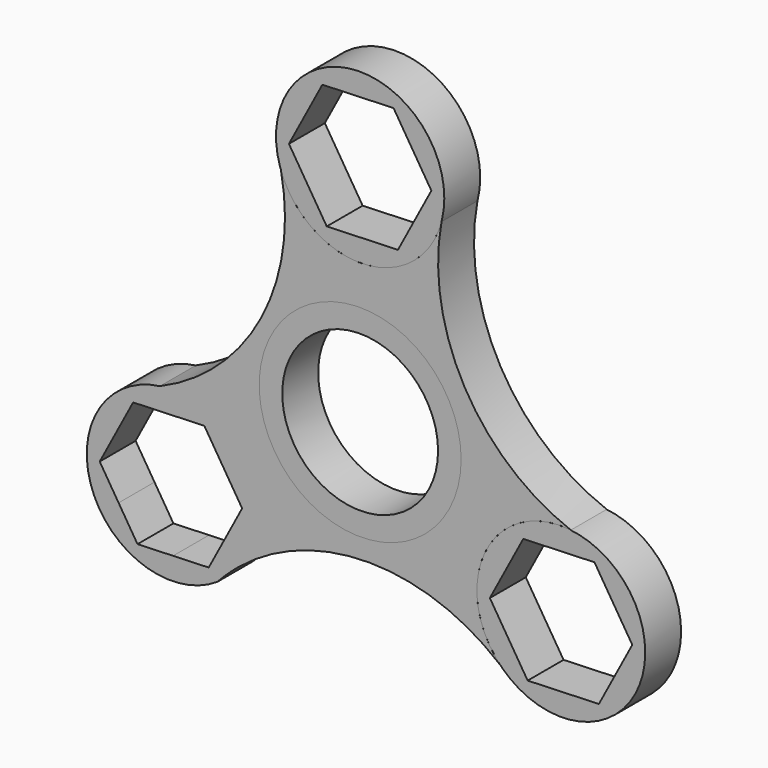
from build123d import *

# Parameters (mm, degrees)
F1_R     = 14.2875
F2_DEPTH = 6.35
F0_R     = 14.2875
F0_R_2   = 11.0236
F0_R_3   = 11.90625


with BuildPart() as f2:
    # F1 (on Front) → F2 (new body)
    with BuildSketch(Plane.XZ):
        with BuildLine():
            ThreePointArc((-28.3368777048, -4.7308819237), (-18.9271499683, -7.579703249), (-14.8679894846, -16.5341421028))
            ThreePointArc((-14.8679894846, -16.5341421028), (-15.4735574781, -20.2829252722), (-17.2286614427, -23.6503720675))
            ThreePointArc((-17.2286614427, -23.6503720675), (1.3205598207, -17.0628768568), (19.8158373016, -23.8003402916))
            ThreePointArc((19.8158373016, -23.8003402916), (17.7714590027, -10.2695141575), (29.8045543603, -3.7528160198))
            ThreePointArc((29.8045543603, -3.7528160198), (14.7729985458, 9.1681983), (11.5143026194, 28.7202105268))
            ThreePointArc((11.5143026194, 28.7202105268), (0.537272208, 19.855878442), (-11.1942484754, 27.6944371372))
            ThreePointArc((-11.1942484754, 27.6944371372), (-14.0084057587, 8.4380816184), (-28.3368777048, -4.7308819237))
        make_face()
        Circle(F1_R, mode=Mode.SUBTRACT)
        with BuildLine():
            ThreePointArc((-17.2286614427, -23.6503720675), (-15.4735574781, -20.2829252722), (-14.8679894846, -16.5341421028))
            ThreePointArc((-14.8679894846, -16.5341421028), (-18.9271499683, -7.579703249), (-28.3368777048, -4.7308819237))
            ThreePointArc((-28.3368777048, -4.7308819237), (-37.9263447141, -20.7041946221), (-20.2092368949, -26.4668924802))
            ThreePointArc((-20.2092368949, -26.4668924802), (-18.7686617016, -25.0060241145), (-17.2286614427, -23.6503720675))
        make_face()
        Polygon((-22.047158212, -7.6290309454), (-19.3729022251, -11.902195068), (-16.6986463625, -16.1753589919), (-19.0621871112, -20.6279147825), (-21.425727635, -25.0804701493), (-26.463524163, -25.2598617036), (-31.5013207572, -25.4392532602), (-34.1755766581, -21.166089275), (-36.8498326067, -16.8929252137), (-34.4862918112, -12.440369335), (-32.1227513342, -7.9878140563), (-27.0849547862, -7.8084225013), align=None, mode=Mode.SUBTRACT)
    extrude(amount=F2_DEPTH)


with BuildPart() as f2b:
    # F0 (on Front) → F2, piece 2 (new body)
    with BuildSketch(Plane.XZ):
        Circle(F0_R)
        Circle(F0_R_2, mode=Mode.SUBTRACT)
    extrude(amount=F2_DEPTH)


with BuildPart() as f2c:
    # F0 (on Front) → F2, piece 3 (new body)
    with BuildSketch(Plane.XZ):
        with Locations((0, 31.75)):
            Circle(F0_R_3)
        Polygon((4.7270812726, 40.6551111574), (10.0755931221, 32.1087831109), (5.3485118496, 23.2036719535), (-4.7270812726, 22.8448888426), (-10.0755931221, 31.3912168891), (-5.3485118496, 40.2963280465), align=None, mode=Mode.SUBTRACT)
    extrude(amount=F2_DEPTH)


with BuildPart() as f2d:
    # F0 (on Front) → F2, piece 4 (new body)
    with BuildSketch(Plane.XZ):
        with Locations((28.4281739187, -15.5792426121)):
            Circle(F0_R_3)
        Polygon((38.5037670408, -15.2204595012), (33.7766857683, -24.1255706586), (23.7010926461, -24.4843537695), (18.3525807966, -15.938025723), (23.0796620691, -7.0329145656), (33.1552551912, -6.6741314547), align=None, mode=Mode.SUBTRACT)
    extrude(amount=F2_DEPTH)


solid = Compound([f2.part, f2b.part, f2c.part, f2d.part])
